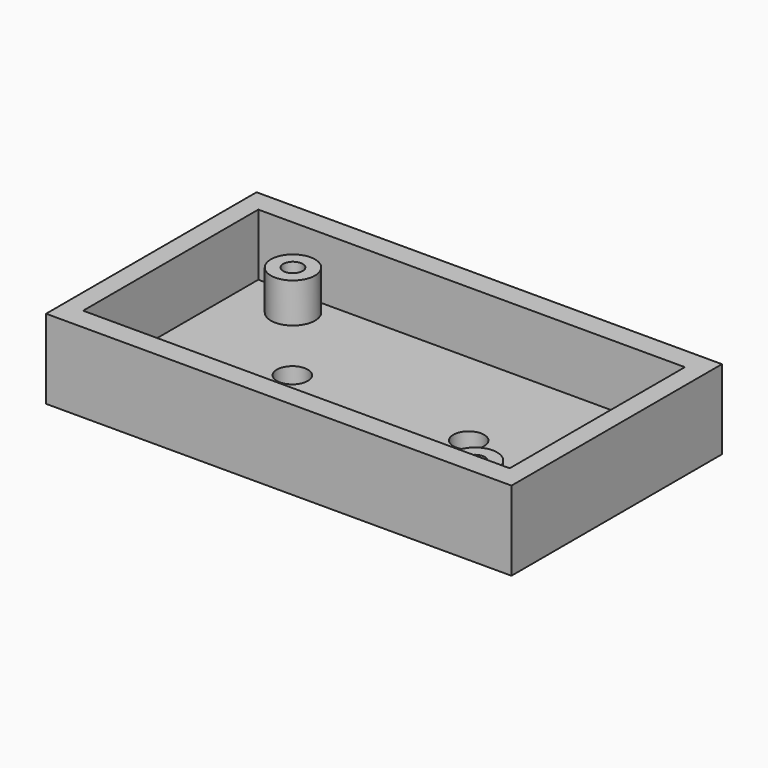
from build123d import *

# Parameters (mm, degrees)
SKETCH_W        = 52.77
SKETCH_H        = 29.83
SKETCH_R        = 1.75
PAD_DEPTH       = 9
SKETCH001_W     = 48.37
SKETCH001_H     = 24.83
POCKET_DEPTH    = 7
SKETCH002_R     = 2.5
PAD001_DEPTH    = 4.5
SKETCH003_R     = 1.1
POCKET001_DEPTH = 3
SKETCH004_R     = 2.5
PAD002_DEPTH    = 4.5
SKETCH005_R     = 1.1
POCKET002_DEPTH = 3


with BuildPart() as part:
    # Sketch → Pad (new body)
    with BuildSketch(Plane.XY):
        with Locations((0, 14.915)):
            Rectangle(SKETCH_W, SKETCH_H)
        with Locations((-10.385, 14.9)):
            Circle(SKETCH_R, mode=Mode.SUBTRACT)
        with Locations((9.615, 14.9)):
            Circle(SKETCH_R, mode=Mode.SUBTRACT)
    extrude(amount=PAD_DEPTH)

    # Sketch001 (on Face8 of Pad) → Pocket (cut)
    with BuildSketch(Plane.XY.offset(9)):
        with Locations((0, 14.915)):
            Rectangle(SKETCH001_W, SKETCH001_H)
    extrude(amount=-POCKET_DEPTH, mode=Mode.SUBTRACT)

    # Sketch002 (on Face13 of Pocket) → Pad001 (join)
    with BuildSketch(Plane.XY.offset(2)):
        with Locations((-17.855, 24.33)):
            Circle(SKETCH002_R)
    extrude(amount=PAD001_DEPTH)

    # Sketch003 (on Face15 of Pad001) → Pocket001 (cut)
    with BuildSketch(Plane.XY.offset(6.5)):
        with Locations((-17.855, 24.33)):
            Circle(SKETCH003_R)
    extrude(amount=-POCKET001_DEPTH, mode=Mode.SUBTRACT)

    # Sketch004 (on Face13 of Pocket001) → Pad002 (join)
    with BuildSketch(Plane.XY.offset(2)):
        with Locations((17.855, 5.5)):
            Circle(SKETCH004_R)
    extrude(amount=PAD002_DEPTH)

    # Sketch005 (on Face16 of Pad002) → Pocket002 (cut)
    with BuildSketch(Plane.XY.offset(6.5)):
        with Locations((17.855, 5.5)):
            Circle(SKETCH005_R)
    extrude(amount=-POCKET002_DEPTH, mode=Mode.SUBTRACT)


solid = part.part
